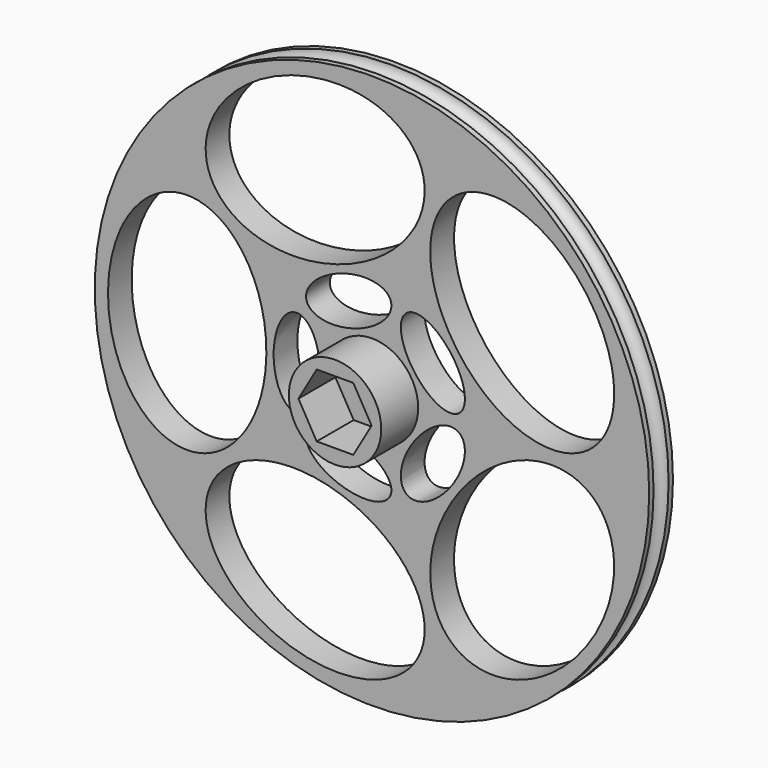
from build123d import *

# Parameters (mm, degrees)
F0_R     = 53.34
F1_DEPTH = 2.8575
F2_R     = 8.89
F3_DEPTH = 8.89
F4_R     = 2.032
F5_DEPTH = 5.715
F7_DEPTH = 12.7
F8_R     = 1.80975


with BuildPart() as f1:
    # F0 (on Front) → F1 (new body, symmetric)
    with BuildSketch(Plane.XZ):
        Circle(F0_R)
    extrude(amount=F1_DEPTH, both=True)

    # F2 (on face) → F3 (join)
    with BuildSketch(Plane.XZ.offset(2.8575)):
        Circle(F2_R)
        Polygon((-7.039054482, 0), (-3.519527241, 6.096), (3.519527241, 6.096), (7.039054482, 0), (3.519527241, -6.096), (-3.519527241, -6.096), align=None, mode=Mode.SUBTRACT)
    extrude(amount=F3_DEPTH)

    # F4 (on face) → F5 (cut, through all)
    with BuildSketch(Plane.XZ.offset(2.8575)):
        Circle(F4_R)
    extrude(amount=-F5_DEPTH, mode=Mode.SUBTRACT)

    # F6 (on face) → F7 (cut, symmetric)
    with BuildSketch(Plane.XZ.offset(2.8575)):
        with BuildLine():
            add(Edge.make_bspline(
                [(-35.56, -21.59), (-9.1635456927, -21.59), (-22.3617728463, 10.795), (-35.56, 43.18), (-48.7582271537, 10.795), (-61.9564543073, -21.59), (-35.56, -21.59)],
                knots=[0, 0, 0, 2.0943951024, 2.0943951024, 4.1887902048, 4.1887902048, 6.2831853072, 6.2831853072, 6.2831853072], degree=2, weights=[1, 0.5, 1, 0.5, 1, 0.5, 1]))
        make_face()
        with BuildLine():
            add(Edge.make_bspline(
                [(9.5960718874, -40.5620009454), (17.7530248596, -15.4574810693), (-17.1254169067, -18.0022256445), (-52.003858673, -20.5469702197), (-25.2823698789, -43.1067455206), (1.4391189152, -65.6665208215), (9.5960718874, -40.5620009454)],
                knots=[0, 0, 0, 2.0943951024, 2.0943951024, 4.1887902048, 4.1887902048, 6.2831853072, 6.2831853072, 6.2831853072], degree=2, weights=[1, 0.5, 1, 0.5, 1, 0.5, 1]))
        make_face()
        with BuildLine():
            add(Edge.make_bspline(
                [(41.5935106261, -3.4786952359), (20.2383305002, 12.0367513187), (11.8804951677, -21.9209873214), (3.5226598351, -55.8787259616), (33.2356752936, -37.4364338761), (62.948690752, -18.9941417906), (41.5935106261, -3.4786952359)],
                knots=[0, 0, 0, 2.0943951024, 2.0943951024, 4.1887902048, 4.1887902048, 6.2831853072, 6.2831853072, 6.2831853072], degree=2, weights=[1, 0.5, 1, 0.5, 1, 0.5, 1]))
        make_face()
        with BuildLine():
            add(Edge.make_bspline(
                [(16.2129434321, 38.4120490531), (-5.1422366938, 22.8966024984), (24.5707787647, 4.4543104129), (54.2837942231, -13.9879816726), (45.9259588906, 19.9697569676), (37.568123558, 53.9274956077), (16.2129434321, 38.4120490531)],
                knots=[0, 0, 0, 2.0943951024, 2.0943951024, 4.1887902048, 4.1887902048, 6.2831853072, 6.2831853072, 6.2831853072], degree=2, weights=[1, 0.5, 1, 0.5, 1, 0.5, 1]))
        make_face()
        with BuildLine():
            add(Edge.make_bspline(
                [(-31.4705484862, 27.2186471283), (-23.313595514, 2.1141272522), (3.4078932801, 24.673902553), (30.1293820742, 47.2336778539), (-4.7490596921, 49.7784224291), (-39.6275014584, 52.3231670043), (-31.4705484862, 27.2186471283)],
                knots=[0, 0, 0, 2.0943951024, 2.0943951024, 4.1887902048, 4.1887902048, 6.2831853072, 6.2831853072, 6.2831853072], degree=2, weights=[1, 0.5, 1, 0.5, 1, 0.5, 1]))
        make_face()
        with BuildLine():
            add(Edge.make_bspline(
                [(-14.478, -8.509), (-6.7790341604, -8.509), (-10.6285170802, 4.2545), (-14.478, 17.018), (-18.3274829198, 4.2545), (-22.1769658396, -8.509), (-14.478, -8.509)],
                knots=[0, 0, 0, 2.0943951024, 2.0943951024, 4.1887902048, 4.1887902048, 6.2831853072, 6.2831853072, 6.2831853072], degree=2, weights=[1, 0.5, 1, 0.5, 1, 0.5, 1]))
        make_face()
        with BuildLine():
            add(Edge.make_bspline(
                [(3.6185918526, -16.3988218481), (5.9977031362, -9.0766702175), (-7.3306623514, -8.7936076251), (-20.6590278389, -8.5105450326), (-9.7097736349, -16.1157592556), (1.239480569, -23.7209734786), (3.6185918526, -16.3988218481)],
                knots=[0, 0, 0, 2.0943951024, 2.0943951024, 4.1887902048, 4.1887902048, 6.2831853072, 6.2831853072, 6.2831853072], degree=2, weights=[1, 0.5, 1, 0.5, 1, 0.5, 1]))
        make_face()
        with BuildLine():
            add(Edge.make_bspline(
                [(16.7144127563, -1.6260292776), (10.4858185529, 2.8993093009), (6.097918587, -9.689248396), (1.710018621, -22.277806093), (12.3265127904, -14.2145869745), (22.9430069597, -6.151367856), (16.7144127563, -1.6260292776)],
                knots=[0, 0, 0, 2.0943951024, 2.0943951024, 4.1887902048, 4.1887902048, 6.2831853072, 6.2831853072, 6.2831853072], degree=2, weights=[1, 0.5, 1, 0.5, 1, 0.5, 1]))
        make_face()
        with BuildLine():
            add(Edge.make_bspline(
                [(6.7114833328, 15.3938804878), (0.4828891294, 10.8685419094), (11.0993832987, 2.8053227909), (21.7158774681, -5.2578963276), (17.3279775021, 7.3306613693), (12.9400775362, 19.9192190663), (6.7114833328, 15.3938804878)],
                knots=[0, 0, 0, 2.0943951024, 2.0943951024, 4.1887902048, 4.1887902048, 6.2831853072, 6.2831853072, 6.2831853072], degree=2, weights=[1, 0.5, 1, 0.5, 1, 0.5, 1]))
        make_face()
        with BuildLine():
            add(Edge.make_bspline(
                [(-12.5664879417, 11.1399706378), (-10.1873766582, 3.8178190073), (0.7618775458, 11.4230332302), (11.7111317498, 19.0282474532), (-1.6172337378, 18.7451848608), (-14.9455992253, 18.4621222683), (-12.5664879417, 11.1399706378)],
                knots=[0, 0, 0, 2.0943951024, 2.0943951024, 4.1887902048, 4.1887902048, 6.2831853072, 6.2831853072, 6.2831853072], degree=2, weights=[1, 0.5, 1, 0.5, 1, 0.5, 1]))
        make_face()
    extrude(amount=F7_DEPTH, both=True, mode=Mode.SUBTRACT)

    # F8 (on Right) → F10 (revolve, cut)
    with BuildSketch(Plane.YZ):
        with Locations((0, 53.34)):
            Circle(F8_R)
    revolve(axis=Axis((0, -19.3280633539, 0), (0, -1, 0)), mode=Mode.SUBTRACT)


solid = f1.part
